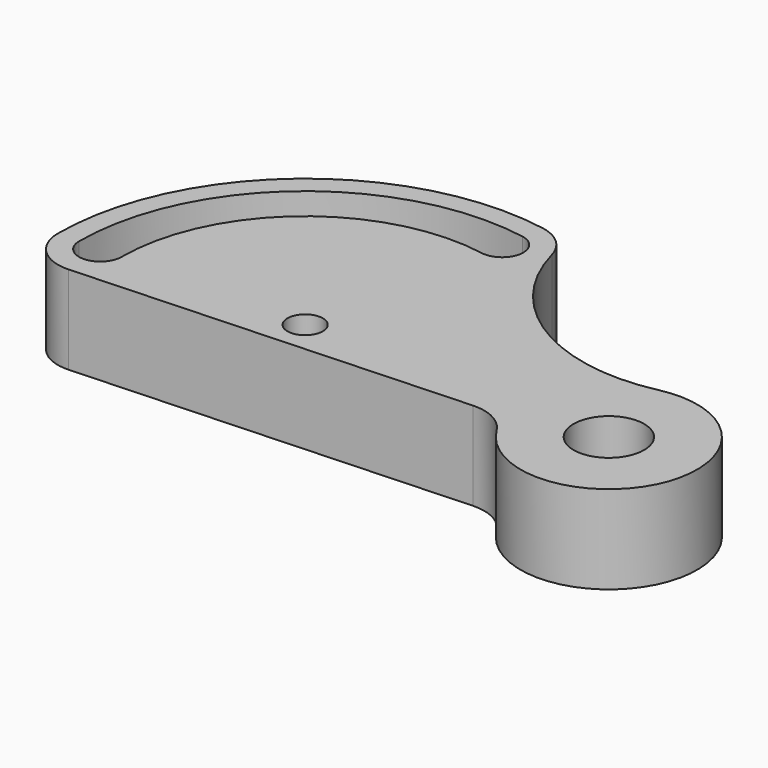
from build123d import *

# Parameters (mm, degrees)
F0_R     = 5
F0_R_2   = 10
F1_DEPTH = 25


with BuildPart() as f1:
    # F0 (on Top) → F1 (new body)
    with BuildSketch(Plane.XY):
        with BuildLine():
            ThreePointArc((53.104685, -7.013139), (59.758753, -8.503991), (64.74277, -13.157895))
            ThreePointArc((64.74277, -13.157895), (109.023376, -9.742904), (80.644633, 24.419665))
            ThreePointArc((80.644633, 24.419665), (43.979871, 30.522731), (21.657847, 60.242749))
            ThreePointArc((21.657847, 60.242749), (18.171776, 65.972496), (12.155372, 68.936543))
            ThreePointArc((12.155372, 68.936543), (-44.995133, 53.623111), (-70, 0))
            ThreePointArc((-70, 0), (-66.29239, -8.673884), (-57.460622, -11.987872))
            Line((-57.460622, -11.987872), (53.104685, -7.013139))
        make_face()
        Circle(F0_R, mode=Mode.SUBTRACT)
        with Locations((86, 0)):
            Circle(F0_R_2, mode=Mode.SUBTRACT)
        with BuildLine():
            ThreePointArc((-64, 0), (-41.138407, 49.026844), (11.113483, 63.027696))
            ThreePointArc((11.113483, 63.027696), (15.980441, 56.076961), (9.029705, 51.210003))
            ThreePointArc((9.029705, 51.210003), (-33.424956, 39.834311), (-52, 0))
            ThreePointArc((-52, 0), (-58, -6), (-64, 0))
        make_face(mode=Mode.SUBTRACT)
    extrude(amount=F1_DEPTH)


solid = f1.part
